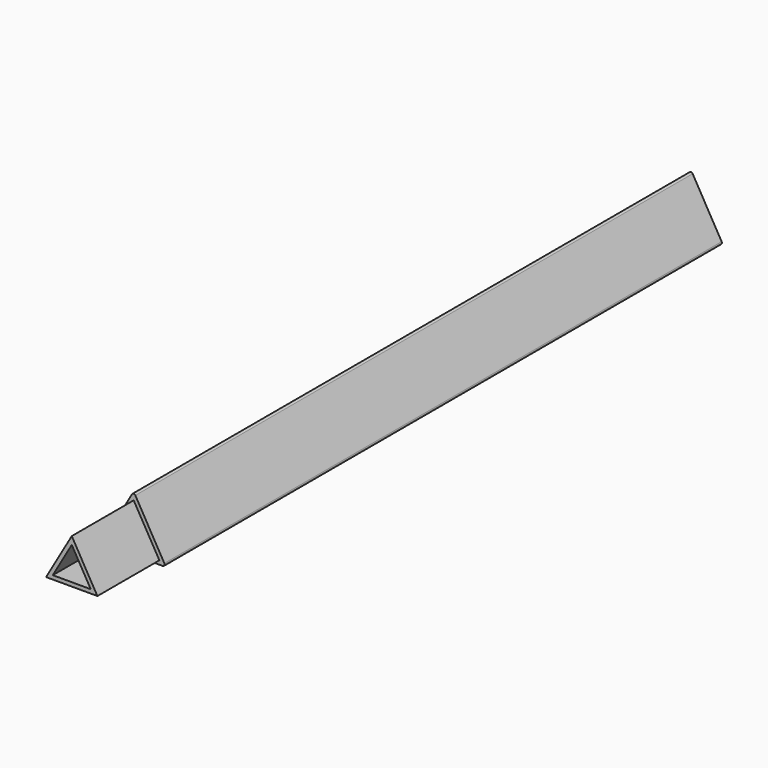
from build123d import *

# Parameters (mm, degrees)
F1_DEPTH      = 180
F2_DEPTH      = 20
F2_DEPTH_BACK = 20


with BuildPart() as f1:
    # F0 (on Front) → F1 (new body)
    with BuildSketch(Plane.XZ):
        with BuildLine():
            ThreePointArc((-7.933013, 0.75), (-7.933013, 0.25), (-7.5, 0))
            Line((-7.5, 0), (7.5, 0))
            ThreePointArc((7.5, 0), (7.933013, 0.25), (7.933013, 0.75))
            Line((7.933013, 0.75), (0.433013, 13.740381))
            ThreePointArc((0.433013, 13.740381), (0, 13.990381), (-0.433013, 13.740381))
            Line((-0.433013, 13.740381), (-7.933013, 0.75))
        make_face()
        Polygon((-6.633975, 1), (0, 12.490381), (6.633975, 1), align=None, mode=Mode.SUBTRACT)
    extrude(amount=-F1_DEPTH)

    # F0 (on Front) → F2 (join, two sides)
    with BuildSketch(Plane.XZ) as f2_sk:
        Polygon((6.633975, 1), (0, 12.490381), (-6.633975, 1), align=None)
        Polygon((-4.901924, 2), (0, 10.490381), (4.901924, 2), align=None, mode=Mode.SUBTRACT)
    extrude(amount=F2_DEPTH)
    extrude(f2_sk.sketch, amount=-F2_DEPTH_BACK)


solid = f1.part
